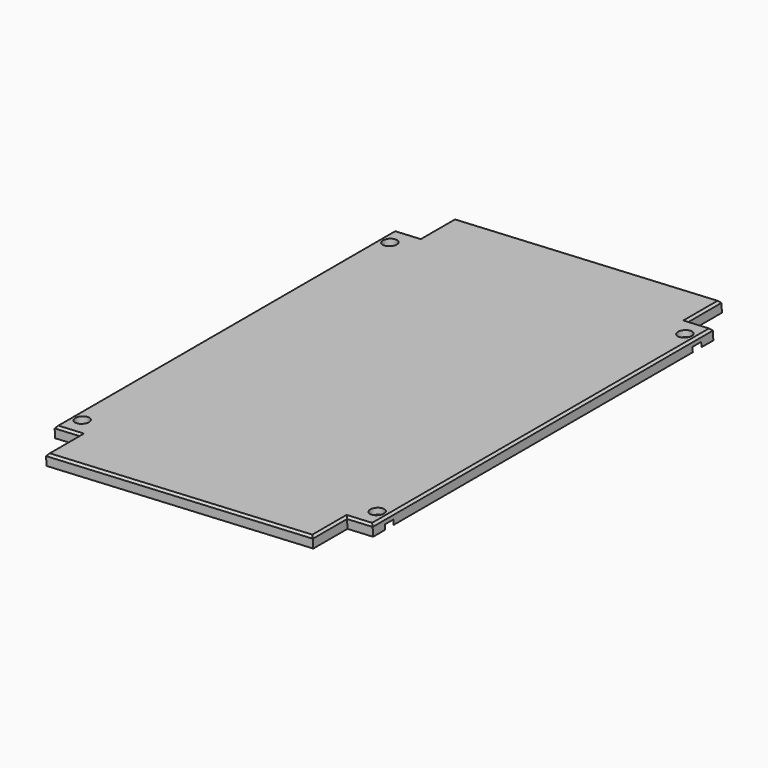
from build123d import *

# Parameters (mm, degrees)
CYLINDER425_R               = 1.6
CYLINDER425_DEPTH           = 15
CYLINDER425_PLACEMENT_ANGLE = 3
CYLINDER428_R               = 1.6
CYLINDER428_DEPTH           = 15
CYLINDER428_PLACEMENT_ANGLE = 3
CYLINDER426_R               = 1.6
CYLINDER426_DEPTH           = 15
CYLINDER426_PLACEMENT_ANGLE = 3
CYLINDER427_R               = 1.6
CYLINDER427_DEPTH           = 15
CYLINDER427_PLACEMENT_ANGLE = 3
CYLINDER422_R               = 3
CYLINDER422_DEPTH           = 2
CYLINDER422_PLACEMENT_ANGLE = 3
CYLINDER423_R               = 3
CYLINDER423_DEPTH           = 2
CYLINDER423_PLACEMENT_ANGLE = 3
CYLINDER424_R               = 3
CYLINDER424_DEPTH           = 2
CYLINDER424_PLACEMENT_ANGLE = 3
CYLINDER421_R               = 3
CYLINDER421_DEPTH           = 2
CYLINDER421_PLACEMENT_ANGLE = 3
BOX289_W                    = 62.5
BOX289_H                    = 119.5
BOX289_DEPTH                = 2.5
BOX288_W                    = 74.5
BOX288_H                    = 99.5
BOX288_DEPTH                = 2.5
CHAMFER028_SIZE             = 0.5
CHAMFER028_PLACEMENT_ANGLE  = 3


with BuildPart() as cylinder560:
    # Cylinder425 → Cylinder425 (new body)
    with BuildSketch(Plane.XY):
        Circle(CYLINDER425_R)
    extrude(amount=CYLINDER425_DEPTH)


with BuildPart() as cylinder560_1:
    # Cylinder425 placement: moved
    add(cylinder560.part.moved(Location((380.5, -14, -52))).rotate(Axis((380.5, -14, -52), (0, -1, 0)), CYLINDER425_PLACEMENT_ANGLE))


with BuildPart() as fusion380:
    # Cylinder428 → Cylinder428 (new body)
    with BuildSketch(Plane.XY):
        Circle(CYLINDER428_R)
    extrude(amount=CYLINDER428_DEPTH)


with BuildPart() as fusion380_1:
    # Cylinder428 placement: moved
    add(fusion380.part.moved(Location((311.5, -14, -56))).rotate(Axis((311.5, -14, -56), (0, -1, 0)), CYLINDER428_PLACEMENT_ANGLE))

    # Fusion380: union Cylinder560
    add(cylinder560_1.part)


with BuildPart() as cylinder561:
    # Cylinder426 → Cylinder426 (new body)
    with BuildSketch(Plane.XY):
        Circle(CYLINDER426_R)
    extrude(amount=CYLINDER426_DEPTH)


with BuildPart() as cylinder561_1:
    # Cylinder426 placement: moved
    add(cylinder561.part.moved(Location((380.5, -14, -52))).rotate(Axis((380.5, -14, -52), (0, -1, 0)), CYLINDER426_PLACEMENT_ANGLE))


with BuildPart() as fusion379:
    # Cylinder427 → Cylinder427 (new body)
    with BuildSketch(Plane.XY):
        Circle(CYLINDER427_R)
    extrude(amount=CYLINDER427_DEPTH)


with BuildPart() as fusion379_1:
    # Cylinder427 placement: moved
    add(fusion379.part.moved(Location((311.5, -14, -56))).rotate(Axis((311.5, -14, -56), (0, -1, 0)), CYLINDER427_PLACEMENT_ANGLE))

    # Fusion378: union Cylinder561
    add(cylinder561_1.part)


with BuildPart() as fusion379_2:
    # Fusion378 placement: moved
    add(fusion379_1.part.moved(Location((0, 90, 0))))

    # Fusion379: union Fusion380
    add(fusion380_1.part)


with BuildPart() as cylinder557:
    # Cylinder422 → Cylinder422 (new body)
    with BuildSketch(Plane.XY):
        Circle(CYLINDER422_R)
    extrude(amount=CYLINDER422_DEPTH)


with BuildPart() as cylinder557_1:
    # Cylinder422 placement: moved
    add(cylinder557.part.moved(Location((380.5, -14, -52))).rotate(Axis((380.5, -14, -52), (0, -1, 0)), CYLINDER422_PLACEMENT_ANGLE))


with BuildPart() as fusion376:
    # Cylinder423 → Cylinder423 (new body)
    with BuildSketch(Plane.XY):
        Circle(CYLINDER423_R)
    extrude(amount=CYLINDER423_DEPTH)


with BuildPart() as fusion376_1:
    # Cylinder423 placement: moved
    add(fusion376.part.moved(Location((311.5, -14, -56))).rotate(Axis((311.5, -14, -56), (0, -1, 0)), CYLINDER423_PLACEMENT_ANGLE))

    # Fusion376: union Cylinder557
    add(cylinder557_1.part)


with BuildPart() as cylinder559:
    # Cylinder424 → Cylinder424 (new body)
    with BuildSketch(Plane.XY):
        Circle(CYLINDER424_R)
    extrude(amount=CYLINDER424_DEPTH)


with BuildPart() as cylinder559_1:
    # Cylinder424 placement: moved
    add(cylinder559.part.moved(Location((380.5, -14, -52))).rotate(Axis((380.5, -14, -52), (0, -1, 0)), CYLINDER424_PLACEMENT_ANGLE))


with BuildPart() as fusion381:
    # Cylinder421 → Cylinder421 (new body)
    with BuildSketch(Plane.XY):
        Circle(CYLINDER421_R)
    extrude(amount=CYLINDER421_DEPTH)


with BuildPart() as fusion381_1:
    # Cylinder421 placement: moved
    add(fusion381.part.moved(Location((311.5, -14, -56))).rotate(Axis((311.5, -14, -56), (0, -1, 0)), CYLINDER421_PLACEMENT_ANGLE))

    # Fusion377: union Cylinder559
    add(cylinder559_1.part)


with BuildPart() as fusion381_2:
    # Fusion377 placement: moved
    add(fusion381_1.part.moved(Location((0, 90, 0))))

    # Fusion375: union Fusion376
    add(fusion376_1.part)

    # Fusion381: union Fusion379
    add(fusion379_2.part)


with BuildPart() as cube369:
    # Box289 → Box289 (new body)
    with BuildSketch(Plane(origin=(8.75, -23.75, -0.5), x_dir=(1, 0, 0), z_dir=(0, 0, 1))):
        with Locations((31.25, 59.75)):
            Rectangle(BOX289_W, BOX289_H)
    extrude(amount=BOX289_DEPTH)


with BuildPart() as battery_box_wide_closure:
    # Box288 → Box288 (new body)
    with BuildSketch(Plane(origin=(2.75, -13.75, -0.5), x_dir=(1, 0, 0), z_dir=(0, 0, 1))):
        with Locations((37.25, 49.75)):
            Rectangle(BOX288_W, BOX288_H)
    extrude(amount=BOX288_DEPTH)

    # Fusion371: union Cube369
    add(cube369.part)

    # Chamfer028
    chamfer028_edges = [battery_box_wide_closure.edges().sort_by_distance(p)[0] for p in [
        (2.75, 36, 2),
        (5.75, -13.75, 2),
        (5.75, 85.75, 2),
        (8.75, -18.75, 2),
        (8.75, 90.75, 2),
        (40, -23.75, 2),
        (40, 95.75, 2),
        (71.25, -18.75, 2),
        (71.25, 90.75, 2),
        (74.25, 85.75, 2),
        (77.25, 36, 2),
        (74.25, -13.75, 2),
    ]]
    chamfer(chamfer028_edges, length=CHAMFER028_SIZE)


with BuildPart() as battery_box_wide_closure_1:
    # Chamfer028 placement: moved
    add(battery_box_wide_closure.part.moved(Location((306, -5, -54.5))).rotate(Axis((306, -5, -54.5), (0, -1, 0)), CHAMFER028_PLACEMENT_ANGLE))

    # Cut291: cut Fusion381
    add(fusion381_2.part, mode=Mode.SUBTRACT)


solid = battery_box_wide_closure_1.part
